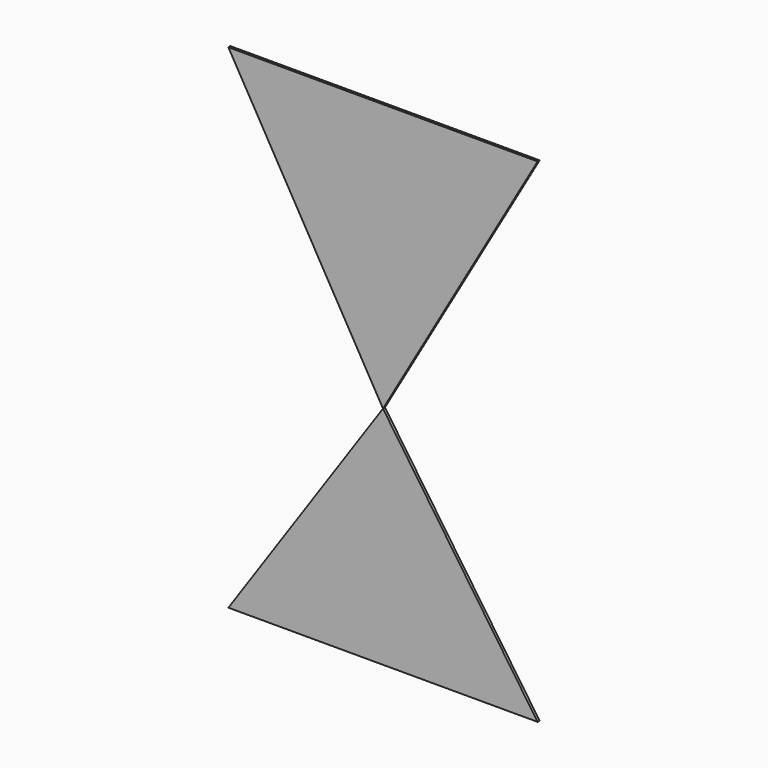
from build123d import *

# Parameters (mm, degrees)
F2_DEPTH = 10
F4_DEPTH = 10


with BuildPart() as f2:
    # F1 (on Front) → F2 (new body)
    with BuildSketch(Plane.XZ):
        Polygon((0, -713.6626677453), (618.05, 356.8313338726), (-618.05, 356.8313338726), align=None)
    extrude(amount=F2_DEPTH)


with BuildPart() as f4:
    # F3 (on Front) → F4 (new body)
    with BuildSketch(Plane.XZ):
        Polygon((0, -713.6626677453), (-618.05, -1615.2622504315), (618.05, -1615.2622504315), align=None)
    extrude(amount=F4_DEPTH)


solid = Compound([f2.part, f4.part])
